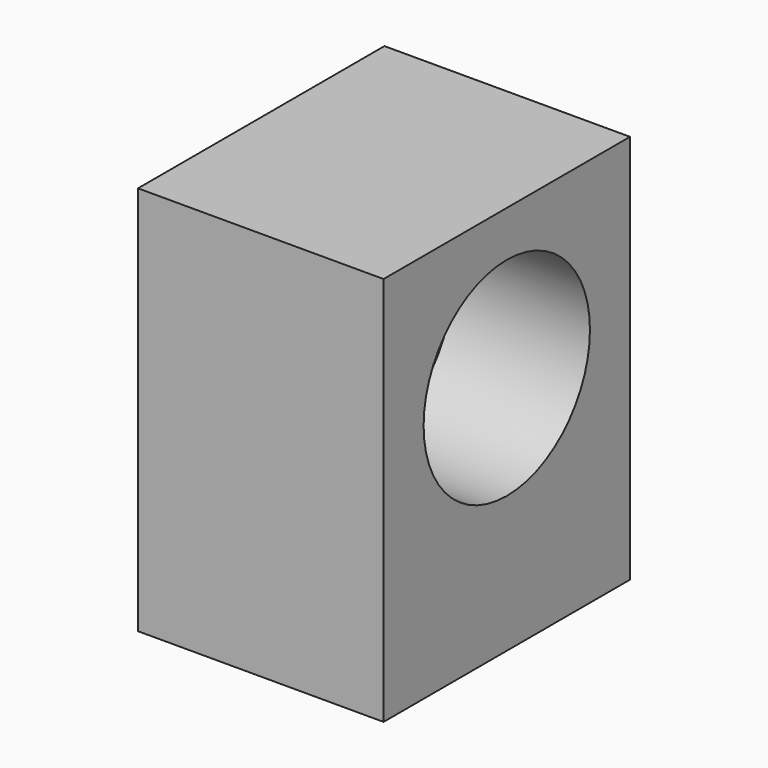
from build123d import *

# Parameters (mm, degrees)
F0_W     = 20.086005
F0_H     = 72.223634
F1_DEPTH = 57.056872
F2_W     = 57.056872
F2_H     = 72.223634
F2_R     = 19.257097
F3_DEPTH = 25.4


with BuildPart() as f1:
    # F0 (on Front) → F1 (new body)
    with BuildSketch(Plane.XZ):
        with Locations((-32.773278, 16.131148)):
            Rectangle(F0_W, F0_H)
    extrude(amount=F1_DEPTH)

    # F2 (on face) → F3 (join)
    with BuildSketch(Plane.YZ.offset(-22.730276)):
        with Locations((-28.528436, 16.131148)):
            Rectangle(F2_W, F2_H)
        with Locations((-28.528436, 24.519622)):
            Circle(F2_R, mode=Mode.SUBTRACT)
    extrude(amount=F3_DEPTH)


solid = f1.part
